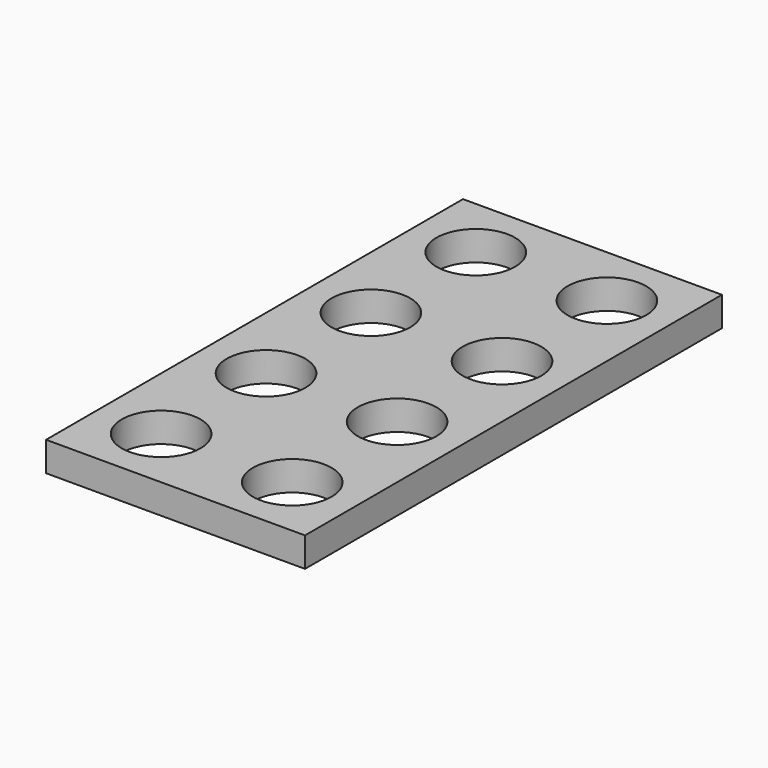
from build123d import *

# Parameters (mm, degrees)
F0_W     = 15.8
F0_H     = 31.8
F0_R     = 2.4
F1_DEPTH = 1.8


with BuildPart() as f1:
    # F0 (on Top) → F1 (new body)
    with BuildSketch(Plane.XY):
        Rectangle(F0_W, F0_H)
        with Locations((-4, -12)):
            Circle(F0_R, mode=Mode.SUBTRACT)
        with Locations((-4, -4)):
            Circle(F0_R, mode=Mode.SUBTRACT)
        with Locations((4, -12)):
            Circle(F0_R, mode=Mode.SUBTRACT)
        with Locations((4, -4)):
            Circle(F0_R, mode=Mode.SUBTRACT)
        with Locations((-4, 4)):
            Circle(F0_R, mode=Mode.SUBTRACT)
        with Locations((-4, 12)):
            Circle(F0_R, mode=Mode.SUBTRACT)
        with Locations((4, 4)):
            Circle(F0_R, mode=Mode.SUBTRACT)
        with Locations((4, 12)):
            Circle(F0_R, mode=Mode.SUBTRACT)
    extrude(amount=F1_DEPTH)


solid = f1.part
